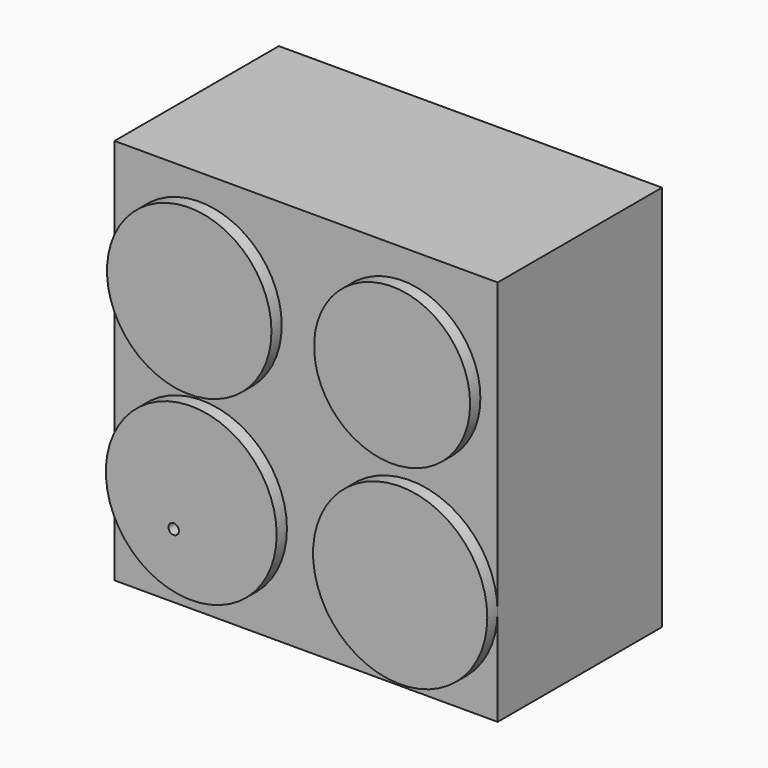
from build123d import *

# Parameters (mm, degrees)
F0_W     = 149.222113
F0_H     = 150.687955
F1_DEPTH = 80
F2_R     = 32.024782
F2_R_2   = 30.381377
F3_DEPTH = 5
F4_R     = 33.265998
F4_R_2   = 2.039344
F4_R_3   = 33.931955
F5_DEPTH = 5


with BuildPart() as f1:
    # F0 (on Front) → F1 (new body)
    with BuildSketch(Plane.XZ):
        with Locations((-0.295292, 0.451285)):
            Rectangle(F0_W, F0_H)
    extrude(amount=F1_DEPTH)

    # F2 (on face) → F3 (join)
    with BuildSketch(Plane.XZ.offset(80)):
        with Locations((-41.818906, 33.70855)):
            Circle(F2_R)
        with Locations((37.204407, 33.996958)):
            Circle(F2_R_2)
    extrude(amount=F3_DEPTH)

    # F4 (on face) → F5 (join)
    with BuildSketch(Plane.XZ.offset(80)):
        with Locations((-41.029103, -35.356872)):
            Circle(F4_R)
        with Locations((-47.875438, -46.468385)):
            Circle(F4_R_2, mode=Mode.SUBTRACT)
        with Locations((40.339995, -37.069906)):
            Circle(F4_R_3)
    extrude(amount=F5_DEPTH)


solid = f1.part
